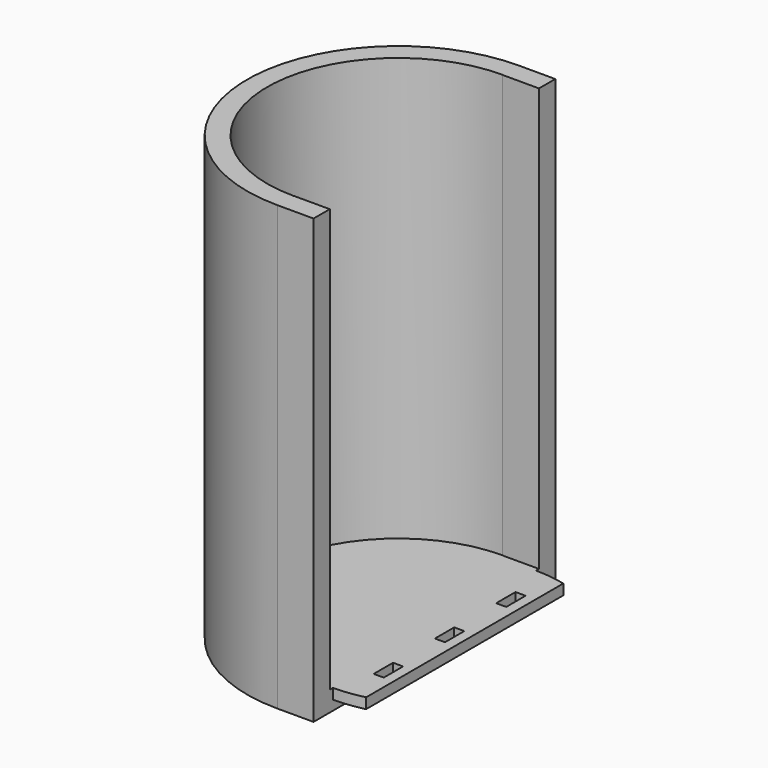
from build123d import *

# Parameters (mm, degrees)
F1_DEPTH = 133.35
F2_W     = 11.43
F2_H     = 95.25
F3_DEPTH = 6.35
F4_W     = 3.175
F4_H     = 7.62
F5_DEPTH = 3.302


with BuildPart() as f1:
    # F0 (on Top) → F1 (new body)
    with BuildSketch(Plane.XY):
        with BuildLine():
            Line((11.43, 47.625), (0, 47.625))
            ThreePointArc((0, 47.625), (-47.625, 0), (0, -47.625))
            Line((0, -47.625), (11.43, -47.625))
            Line((11.43, -47.625), (11.43, -41.232052))
            Line((11.43, -41.232052), (0, -41.232052))
            Line((0, -41.232052), (0, -41.275))
            ThreePointArc((0, -41.275), (-41.275, 0), (0, 41.275))
            Line((0, 41.275), (0, 41.207306))
            Line((0, 41.207306), (11.43, 41.207306))
            Line((11.43, 41.207306), (11.43, 47.625))
        make_face()
    extrude(amount=F1_DEPTH)

    # F2 (on Top) → F3 (join)
    with BuildSketch(Plane.XY):
        with BuildLine():
            Line((0, -47.625), (0, 47.625))
            ThreePointArc((0, 47.625), (-47.625, 0), (0, -47.625))
        make_face()
        with Locations((5.715, 0)):
            Rectangle(F2_W, F2_H)
    extrude(amount=-F3_DEPTH)

    # F4 (on face) → F5 (join)
    with BuildSketch(Plane.XY):
        with BuildLine():
            ThreePointArc((20.955, 38.890978), (16.227114, 39.752791), (11.43, 40.04145))
            Line((11.43, 40.04145), (11.43, -39.96855))
            ThreePointArc((11.43, -39.96855), (16.227114, -39.679891), (20.955, -38.818079))
            Line((20.955, -38.818079), (20.955, 38.890978))
        make_face()
        with Locations((16.204277, -24.09355)):
            Rectangle(F4_W, F4_H, mode=Mode.SUBTRACT)
        with Locations((16.1925, 0.03645)):
            Rectangle(F4_W, F4_H, mode=Mode.SUBTRACT)
        with Locations((16.204277, 24.16645)):
            Rectangle(F4_W, F4_H, mode=Mode.SUBTRACT)
    extrude(amount=-F5_DEPTH)


solid = f1.part
